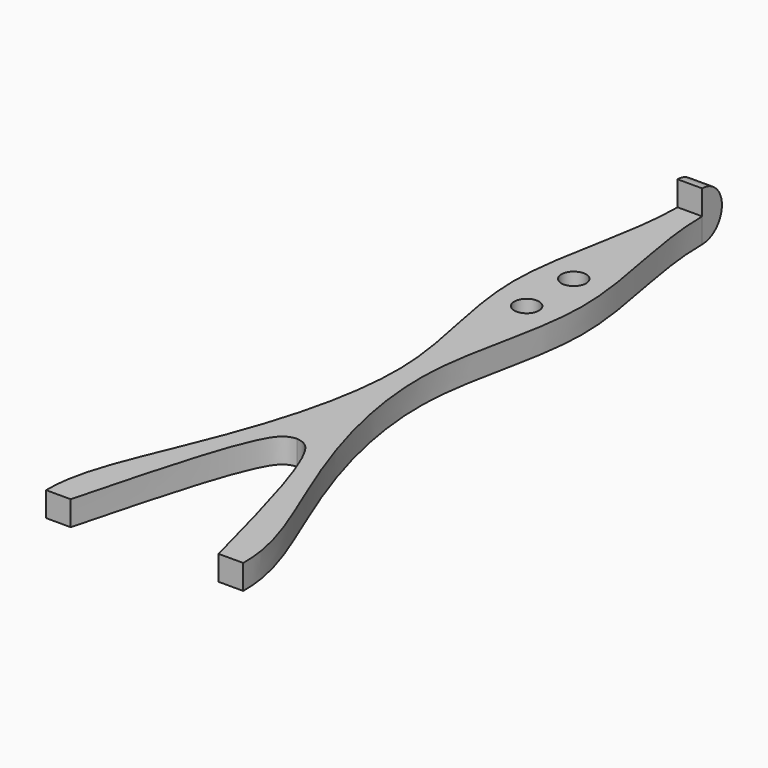
from build123d import *

# Parameters (mm, degrees)
F0_R      = 2.5
F1_DEPTH  = 5
F1_FACE_W = 5
F1_FACE_H = 5
F2_ANGLE  = 180


with BuildPart() as f1:
    # F0 (on Top) → F1 (new body)
    with BuildSketch(Plane.XY):
        with BuildLine():
            Line((2.5, 71.0532781467), (-2.5, 71.0532781467))
            add(Edge.make_bspline(
                [(-2.5, 71.0532781467), (-2.5, 59.2588360598), (-11.2106935248, 35.150238709), (0.9617077508, 3.5175734057), (-6.6090899261, -28.4244456993), (-15.5349249125, -48.3786091549), (-20.1171046806, -61.0484929135), (-20, -67.2467218533)],
                knots=[0, 0, 0, 0, 0.2274557939, 0.4443602309, 0.6572252083, 0.83570549, 1, 1, 1, 1], degree=3))
            Line((-20, -67.2467218533), (-15, -67.2467218533))
            add(Edge.make_bspline(
                [(-15, -67.2467218533), (-13.6951917767, -62.2034367205), (-10.9373851349, -51.5440884827), (-4.3070577646, -29.2885366167), (-0.9350332332, -28.7723029576), (0, -28.6291558295)],
                knots=[0, 0, 0, 0, 0.3935719165, 0.8318427383, 1, 1, 1, 1], degree=3))
            add(Edge.make_bspline(
                [(15, -67.2467218533), (13.6951917767, -62.2034367205), (10.9373851349, -51.5440884827), (4.3070577646, -29.2885366167), (0.9350332332, -28.7723029576), (0, -28.6291558295)],
                knots=[0, 0, 0, 0, 0.3935719165, 0.8318427383, 1, 1, 1, 1], degree=3))
            Line((15, -67.2467218533), (20, -67.2467218533))
            add(Edge.make_bspline(
                [(2.5, 71.0532781467), (2.5, 59.2588360598), (11.2106935248, 35.150238709), (-0.9617077508, 3.5175734057), (6.6090899261, -28.4244456993), (15.5349249125, -48.3786091549), (20.1171046806, -61.0484929135), (20, -67.2467218533)],
                knots=[0, 0, 0, 0, 0.2274557939, 0.4443602309, 0.6572252083, 0.83570549, 1, 1, 1, 1], degree=3))
        make_face()
        with Locations((0, 29.6485398369)):
            Circle(F0_R, mode=Mode.SUBTRACT)
        with Locations((0, 41.6)):
            Circle(F0_R, mode=Mode.SUBTRACT)
    extrude(amount=F1_DEPTH)

    # F1_face (on face) → F2 (revolve)
    with BuildSketch(Plane(origin=(0, 71.0532781467, 2.5), x_dir=(-1, 0, 0), z_dir=(0, 1, 0))):
        Rectangle(F1_FACE_W, F1_FACE_H)
    revolve(axis=Axis((0, 71.0532781467, 5), (1, 0, 0)), revolution_arc=F2_ANGLE)


solid = f1.part
